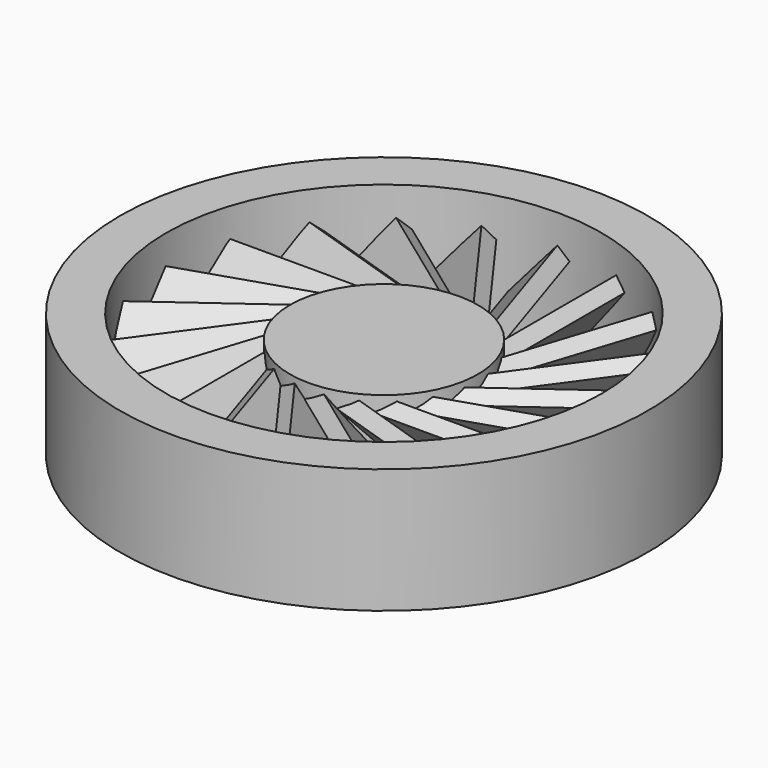
from build123d import *

# Parameters (mm, degrees)
F3_DEPTH = 39.116
F4_COUNT = 20


with BuildPart() as f1:
    # F0 (on Front) → F1 (revolve)
    with BuildSketch(Plane.XZ):
        Polygon((15.4387056828, 0), (0, 0), (0, -6.35), (0, -12.7), (15.4387056828, -12.7), align=None)
    revolve(axis=Axis((15.4387056828, 0, -9.5572974533), (0, 0, -1)))


with BuildPart() as f1b:
    # F0 (on Front) → F1, piece 2 (revolve)
    with BuildSketch(Plane.XZ):
        Polygon((-20.3398931772, -16.51), (-20.3398931772, -6.35), (-20.3398931772, 3.81), (-27.9367212206, 3.81), (-27.9367212206, -16.664005816), align=None)
    revolve(axis=Axis((15.4387056828, 0, -9.5572974533), (0, 0, -1)))


with BuildPart() as f3:
    # F2 (on Front) → F3 (new body)
    with BuildSketch(Plane.XZ):
        Polygon((9.8939777552, -11.3358675404), (11.8397306408, -9.7031870118), (4.4926682621, -0.9472990269), (2.5469153765, -2.5799795555), align=None)
    extrude(amount=F3_DEPTH)


with BuildPart() as f4_1:
    # F4: instance of F3
    add(f3.part.rotate(Axis((15.4387056828, 0, -6.35), (0, 0, 1)), 1 * 360 / F4_COUNT))


with BuildPart() as f4_2:
    # F4: instance of F3
    add(f3.part.rotate(Axis((15.4387056828, 0, -6.35), (0, 0, 1)), 2 * 360 / F4_COUNT))


with BuildPart() as f4_3:
    # F4: instance of F3
    add(f3.part.rotate(Axis((15.4387056828, 0, -6.35), (0, 0, 1)), 3 * 360 / F4_COUNT))


with BuildPart() as f4_4:
    # F4: instance of F3
    add(f3.part.rotate(Axis((15.4387056828, 0, -6.35), (0, 0, 1)), 4 * 360 / F4_COUNT))


with BuildPart() as f4_5:
    # F4: instance of F3
    add(f3.part.rotate(Axis((15.4387056828, 0, -6.35), (0, 0, 1)), 5 * 360 / F4_COUNT))


with BuildPart() as f4_6:
    # F4: instance of F3
    add(f3.part.rotate(Axis((15.4387056828, 0, -6.35), (0, 0, 1)), 6 * 360 / F4_COUNT))


with BuildPart() as f4_7:
    # F4: instance of F3
    add(f3.part.rotate(Axis((15.4387056828, 0, -6.35), (0, 0, 1)), 7 * 360 / F4_COUNT))


with BuildPart() as f4_8:
    # F4: instance of F3
    add(f3.part.rotate(Axis((15.4387056828, 0, -6.35), (0, 0, 1)), 8 * 360 / F4_COUNT))


with BuildPart() as f4_9:
    # F4: instance of F3
    add(f3.part.rotate(Axis((15.4387056828, 0, -6.35), (0, 0, 1)), 9 * 360 / F4_COUNT))


with BuildPart() as f4_10:
    # F4: instance of F3
    add(f3.part.rotate(Axis((15.4387056828, 0, -6.35), (0, 0, 1)), 10 * 360 / F4_COUNT))


with BuildPart() as f4_11:
    # F4: instance of F3
    add(f3.part.rotate(Axis((15.4387056828, 0, -6.35), (0, 0, 1)), 11 * 360 / F4_COUNT))


with BuildPart() as f4_12:
    # F4: instance of F3
    add(f3.part.rotate(Axis((15.4387056828, 0, -6.35), (0, 0, 1)), 12 * 360 / F4_COUNT))


with BuildPart() as f4_13:
    # F4: instance of F3
    add(f3.part.rotate(Axis((15.4387056828, 0, -6.35), (0, 0, 1)), 13 * 360 / F4_COUNT))


with BuildPart() as f4_14:
    # F4: instance of F3
    add(f3.part.rotate(Axis((15.4387056828, 0, -6.35), (0, 0, 1)), 14 * 360 / F4_COUNT))


with BuildPart() as f4_15:
    # F4: instance of F3
    add(f3.part.rotate(Axis((15.4387056828, 0, -6.35), (0, 0, 1)), 15 * 360 / F4_COUNT))


with BuildPart() as f4_16:
    # F4: instance of F3
    add(f3.part.rotate(Axis((15.4387056828, 0, -6.35), (0, 0, 1)), 16 * 360 / F4_COUNT))


with BuildPart() as f4_17:
    # F4: instance of F3
    add(f3.part.rotate(Axis((15.4387056828, 0, -6.35), (0, 0, 1)), 17 * 360 / F4_COUNT))


with BuildPart() as f4_18:
    # F4: instance of F3
    add(f3.part.rotate(Axis((15.4387056828, 0, -6.35), (0, 0, 1)), 18 * 360 / F4_COUNT))


with BuildPart() as f4_19:
    # F4: instance of F3
    add(f3.part.rotate(Axis((15.4387056828, 0, -6.35), (0, 0, 1)), 19 * 360 / F4_COUNT))


solid = Compound([f1.part, f1b.part, f3.part, f4_1.part, f4_2.part, f4_3.part, f4_4.part, f4_5.part, f4_6.part, f4_7.part, f4_8.part, f4_9.part, f4_10.part, f4_11.part, f4_12.part, f4_13.part, f4_14.part, f4_15.part, f4_16.part, f4_17.part, f4_18.part, f4_19.part])
